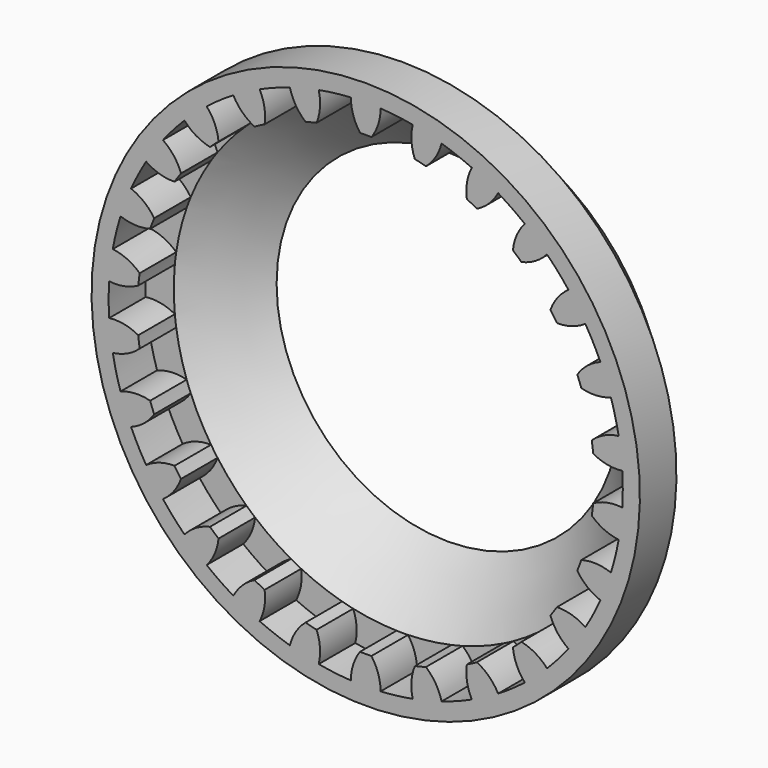
from build123d import *

# Parameters (mm, degrees)
F3_DEPTH = 4


with BuildPart() as f1:
    # F0 (on Right) → F1 (revolve)
    with BuildSketch(Plane.YZ):
        Polygon((0, 24), (0, 20), (4, 20), (9, 15), (9, 19), (4, 24), align=None)
    revolve(axis=Axis((0, -4.493960645, 0), (0, -1, 0)))

    # F2 (on Front) → F3 (cut)
    with BuildSketch(Plane.XZ):
        with BuildLine():
            ThreePointArc((-4.2993464204, 19.5324248458), (-2.4107336051, 19.854177482), (-0.5, 19.9937490231))
            ThreePointArc((-0.5, 19.9937490231), (-1.0942234741, 21.1650840575), (-1.2989277317, 22.4624750806))
            ThreePointArc((-1.2989277317, 22.4624750806), (-2.7120753057, 22.3359496672), (-4.1144388929, 22.1206101317))
            ThreePointArc((-4.1144388929, 22.1206101317), (-4.0027088223, 20.8119299984), (-4.2993464204, 19.5324248458))
        make_face()
        with BuildLine():
            ThreePointArc((0.5, 19.9937490231), (2.4107336051, 19.854177482), (4.2993464204, 19.5324248458))
            ThreePointArc((4.2993464204, 19.5324248458), (4.0027088223, 20.8119299984), (4.1144388929, 22.1206101317))
            ThreePointArc((4.1144388929, 22.1206101317), (2.7120753057, 22.3359496672), (1.2989277317, 22.4624750806))
            ThreePointArc((1.2989277317, 22.4624750806), (1.0942234741, 21.1650840575), (0.5, 19.9937490231))
        make_face()
        with BuildLine():
            ThreePointArc((9.7342864799, 17.4712239619), (11.3612949346, 16.4596773179), (12.8840526263, 15.2970973692))
            ThreePointArc((12.8840526263, 15.2970973692), (13.2160087708, 16.5678972819), (13.9231148178, 17.6747524387))
            ThreePointArc((13.9231148178, 17.6747524387), (12.7814568015, 18.5171369826), (11.5889760584, 19.2858920955))
            ThreePointArc((11.5889760584, 19.2858920955), (10.8047917684, 18.2322402084), (9.7342864799, 17.4712239619))
        make_face()
        with BuildLine():
            ThreePointArc((13.6325633745, 14.6339747109), (14.9702149634, 13.2624531648), (16.1705004914, 11.769235908))
            ThreePointArc((16.1705004914, 11.769235908), (16.7969329189, 12.9236663796), (17.7483795264, 13.8291367838))
            ThreePointArc((17.7483795264, 13.8291367838), (16.8414918338, 14.9202598104), (15.8676375544, 15.952055618))
            ThreePointArc((15.8676375544, 15.952055618), (14.8540848334, 15.1166885241), (13.6325633745, 14.6339747109))
        make_face()
        with BuildLine():
            ThreePointArc((16.7385652381, 10.9462520421), (17.7091205131, 9.2944634409), (18.5171776453, 7.5573892352))
            ThreePointArc((18.5171776453, 7.5573892352), (19.4016803801, 8.5283589629), (20.5421729297, 9.1798219659))
            ThreePointArc((20.5421729297, 9.1798219659), (19.9227605772, 10.456271371), (19.2241296323, 11.6911436515))
            ThreePointArc((19.2241296323, 11.6911436515), (18.0401124803, 11.1226098498), (16.7385652381, 10.9462520421))
        make_face()
        with BuildLine():
            ThreePointArc((18.8717825323, 6.6223729926), (19.4188363485, 4.7863132858), (19.7877037416, 2.9063345702))
            ThreePointArc((19.7877037416, 2.9063345702), (20.8788726999, 3.6374143226), (22.1421299101, 3.9970092626))
            ThreePointArc((22.1421299101, 3.9970092626), (21.8461908921, 5.3846024465), (21.4633851729, 6.7507849114))
            ThreePointArc((21.4633851729, 6.7507849114), (20.177714363, 6.48212552), (18.8717825323, 6.6223729926))
        make_face()
        with BuildLine():
            ThreePointArc((19.9082404219, 1.9136256961), (19.9770469344, 0.9579121991), (20, 0))
            ThreePointArc((20, 0), (19.9770469344, -0.9579121991), (19.9082404219, -1.9136256961))
            ThreePointArc((19.9082404219, -1.9136256961), (21.1426608299, -1.4649236166), (22.4552667834, -1.4180950904))
            ThreePointArc((22.4552667834, -1.4180950904), (22.4888139152, -0.7094002302), (22.5, 0))
            ThreePointArc((22.5, 0), (22.4888139152, 0.7094002302), (22.4552667834, 1.4180950904))
            ThreePointArc((22.4552667834, 1.4180950904), (21.1426608299, 1.4649236166), (19.9082404219, 1.9136256961))
        make_face()
        with BuildLine():
            ThreePointArc((22.1421299101, -3.9970092626), (20.8788726999, -3.6374143226), (19.7877037416, -2.9063345702))
            ThreePointArc((19.7877037416, -2.9063345702), (19.4188363485, -4.7863132858), (18.8717825323, -6.6223729926))
            ThreePointArc((18.8717825323, -6.6223729926), (20.177714363, -6.48212552), (21.4633851729, -6.7507849114))
            ThreePointArc((21.4633851729, -6.7507849114), (21.8461908921, -5.3846024465), (22.1421299101, -3.9970092626))
        make_face()
        with BuildLine():
            ThreePointArc((20.5421729297, -9.1798219659), (19.4016803801, -8.5283589629), (18.5171776453, -7.5573892352))
            ThreePointArc((18.5171776453, -7.5573892352), (17.7091205131, -9.2944634409), (16.7385652381, -10.9462520421))
            ThreePointArc((16.7385652381, -10.9462520421), (18.0401124803, -11.1226098498), (19.2241296323, -11.6911436515))
            ThreePointArc((19.2241296323, -11.6911436515), (19.9227605772, -10.456271371), (20.5421729297, -9.1798219659))
        make_face()
        with BuildLine():
            ThreePointArc((17.7483795264, -13.8291367838), (16.7969329189, -12.9236663796), (16.1705004914, -11.769235908))
            ThreePointArc((16.1705004914, -11.769235908), (14.9702149634, -13.2624531648), (13.6325633745, -14.6339747109))
            ThreePointArc((13.6325633745, -14.6339747109), (14.8540848334, -15.1166885241), (15.8676375544, -15.952055618))
            ThreePointArc((15.8676375544, -15.952055618), (16.8414918338, -14.9202598104), (17.7483795264, -13.8291367838))
        make_face()
        with BuildLine():
            ThreePointArc((13.9231148178, -17.6747524387), (13.2160087708, -16.5678972819), (12.8840526263, -15.2970973692))
            ThreePointArc((12.8840526263, -15.2970973692), (11.3612949346, -16.4596773179), (9.7342864799, -17.4712239619))
            ThreePointArc((9.7342864799, -17.4712239619), (10.8047917684, -18.2322402084), (11.5889760584, -19.2858920955))
            ThreePointArc((11.5889760584, -19.2858920955), (12.7814568015, -18.5171369826), (13.9231148178, -17.6747524387))
        make_face()
        with BuildLine():
            ThreePointArc((9.2886892845, -20.493175727), (8.8670182312, -19.249262216), (8.8488304543, -17.935947134))
            ThreePointArc((8.8488304543, -17.935947134), (7.0920977409, -18.7003248537), (5.2702882378, -19.2931091815))
            ThreePointArc((5.2702882378, -19.2931091815), (6.1275634796, -20.2882003632), (6.636805398, -21.4989026257))
            ThreePointArc((6.636805398, -21.4989026257), (7.9786099585, -21.0378654604), (9.2886892845, -20.493175727))
        make_face()
        with BuildLine():
            ThreePointArc((4.1144388929, -22.1206101317), (4.0027088223, -20.8119299984), (4.2993464204, -19.5324248458))
            ThreePointArc((4.2993464204, -19.5324248458), (2.4107336051, -19.854177482), (0.5, -19.9937490231))
            ThreePointArc((0.5, -19.9937490231), (1.0942234741, -21.1650840575), (1.2989277317, -22.4624750806))
            ThreePointArc((1.2989277317, -22.4624750806), (2.7120753057, -22.3359496672), (4.1144388929, -22.1206101317))
        make_face()
        with BuildLine():
            ThreePointArc((-1.2989277317, -22.4624750806), (-1.0942234741, -21.1650840575), (-0.5, -19.9937490231))
            ThreePointArc((-0.5, -19.9937490231), (-2.4107336051, -19.854177482), (-4.2993464204, -19.5324248458))
            ThreePointArc((-4.2993464204, -19.5324248458), (-4.0027088223, -20.8119299984), (-4.1144388929, -22.1206101317))
            ThreePointArc((-4.1144388929, -22.1206101317), (-2.7120753057, -22.3359496672), (-1.2989277317, -22.4624750806))
        make_face()
        with BuildLine():
            ThreePointArc((-6.636805398, -21.4989026257), (-6.1275634796, -20.2882003632), (-5.2702882378, -19.2931091815))
            ThreePointArc((-5.2702882378, -19.2931091815), (-7.0920977409, -18.7003248537), (-8.8488304543, -17.935947134))
            ThreePointArc((-8.8488304543, -17.935947134), (-8.8670182312, -19.249262216), (-9.2886892845, -20.493175727))
            ThreePointArc((-9.2886892845, -20.493175727), (-7.9786099585, -21.0378654604), (-6.636805398, -21.4989026257))
        make_face()
        with BuildLine():
            ThreePointArc((-11.5889760584, -19.2858920955), (-10.8047917684, -18.2322402084), (-9.7342864799, -17.4712239619))
            ThreePointArc((-9.7342864799, -17.4712239619), (-11.3612949346, -16.4596773179), (-12.8840526263, -15.2970973692))
            ThreePointArc((-12.8840526263, -15.2970973692), (-13.2160087708, -16.5678972819), (-13.9231148178, -17.6747524387))
            ThreePointArc((-13.9231148178, -17.6747524387), (-12.7814568015, -18.5171369826), (-11.5889760584, -19.2858920955))
        make_face()
        with BuildLine():
            ThreePointArc((-15.8676375544, -15.952055618), (-14.8540848334, -15.1166885241), (-13.6325633745, -14.6339747109))
            ThreePointArc((-13.6325633745, -14.6339747109), (-14.9702149634, -13.2624531648), (-16.1705004914, -11.769235908))
            ThreePointArc((-16.1705004914, -11.769235908), (-16.7969329189, -12.9236663796), (-17.7483795264, -13.8291367838))
            ThreePointArc((-17.7483795264, -13.8291367838), (-16.8414918338, -14.9202598104), (-15.8676375544, -15.952055618))
        make_face()
        with BuildLine():
            ThreePointArc((-19.2241296323, -11.6911436515), (-18.0401124803, -11.1226098498), (-16.7385652381, -10.9462520421))
            ThreePointArc((-16.7385652381, -10.9462520421), (-17.7091205131, -9.2944634409), (-18.5171776453, -7.5573892352))
            ThreePointArc((-18.5171776453, -7.5573892352), (-19.4016803801, -8.5283589629), (-20.5421729297, -9.1798219659))
            ThreePointArc((-20.5421729297, -9.1798219659), (-19.9227605772, -10.456271371), (-19.2241296323, -11.6911436515))
        make_face()
        with BuildLine():
            ThreePointArc((-21.4633851729, -6.7507849114), (-20.177714363, -6.48212552), (-18.8717825323, -6.6223729926))
            ThreePointArc((-18.8717825323, -6.6223729926), (-19.4188363485, -4.7863132858), (-19.7877037416, -2.9063345702))
            ThreePointArc((-19.7877037416, -2.9063345702), (-20.8788726999, -3.6374143226), (-22.1421299101, -3.9970092626))
            ThreePointArc((-22.1421299101, -3.9970092626), (-21.8461908921, -5.3846024465), (-21.4633851729, -6.7507849114))
        make_face()
        with BuildLine():
            ThreePointArc((-19.9082404219, -1.9136256961), (-20, 0), (-19.9082404219, 1.9136256961))
            ThreePointArc((-19.9082404219, 1.9136256961), (-21.1426608299, 1.4649236166), (-22.4552667834, 1.4180950904))
            ThreePointArc((-22.4552667834, 1.4180950904), (-22.5, 0), (-22.4552667834, -1.4180950904))
            ThreePointArc((-22.4552667834, -1.4180950904), (-21.1426608299, -1.4649236166), (-19.9082404219, -1.9136256961))
        make_face()
        with BuildLine():
            ThreePointArc((-19.7877037416, 2.9063345702), (-19.4188363485, 4.7863132858), (-18.8717825323, 6.6223729926))
            ThreePointArc((-18.8717825323, 6.6223729926), (-20.177714363, 6.48212552), (-21.4633851729, 6.7507849114))
            ThreePointArc((-21.4633851729, 6.7507849114), (-21.8461908921, 5.3846024465), (-22.1421299101, 3.9970092626))
            ThreePointArc((-22.1421299101, 3.9970092626), (-20.8788726999, 3.6374143226), (-19.7877037416, 2.9063345702))
        make_face()
        with BuildLine():
            ThreePointArc((-18.5171776453, 7.5573892352), (-17.7091205131, 9.2944634409), (-16.7385652381, 10.9462520421))
            ThreePointArc((-16.7385652381, 10.9462520421), (-18.0401124803, 11.1226098498), (-19.2241296323, 11.6911436515))
            ThreePointArc((-19.2241296323, 11.6911436515), (-19.9227605772, 10.456271371), (-20.5421729297, 9.1798219659))
            ThreePointArc((-20.5421729297, 9.1798219659), (-19.4016803801, 8.5283589629), (-18.5171776453, 7.5573892352))
        make_face()
        with BuildLine():
            ThreePointArc((-16.1705004914, 11.769235908), (-14.9702149634, 13.2624531648), (-13.6325633745, 14.6339747109))
            ThreePointArc((-13.6325633745, 14.6339747109), (-14.8540848334, 15.1166885241), (-15.8676375544, 15.952055618))
            ThreePointArc((-15.8676375544, 15.952055618), (-16.8414918338, 14.9202598104), (-17.7483795264, 13.8291367838))
            ThreePointArc((-17.7483795264, 13.8291367838), (-16.7969329189, 12.9236663796), (-16.1705004914, 11.769235908))
        make_face()
        with BuildLine():
            ThreePointArc((-12.8840526263, 15.2970973692), (-11.3612949346, 16.4596773179), (-9.7342864799, 17.4712239619))
            ThreePointArc((-9.7342864799, 17.4712239619), (-10.8047917684, 18.2322402084), (-11.5889760584, 19.2858920955))
            ThreePointArc((-11.5889760584, 19.2858920955), (-12.7814568015, 18.5171369826), (-13.9231148178, 17.6747524387))
            ThreePointArc((-13.9231148178, 17.6747524387), (-13.2160087708, 16.5678972819), (-12.8840526263, 15.2970973692))
        make_face()
        with BuildLine():
            ThreePointArc((-8.8488304543, 17.935947134), (-7.0920977409, 18.7003248537), (-5.2702882378, 19.2931091815))
            ThreePointArc((-5.2702882378, 19.2931091815), (-6.1275634796, 20.2882003632), (-6.636805398, 21.4989026257))
            ThreePointArc((-6.636805398, 21.4989026257), (-7.9786099585, 21.0378654604), (-9.2886892845, 20.493175727))
            ThreePointArc((-9.2886892845, 20.493175727), (-8.8670182312, 19.249262216), (-8.8488304543, 17.935947134))
        make_face()
        with BuildLine():
            ThreePointArc((5.2702882378, 19.2931091815), (7.0920977409, 18.7003248537), (8.8488304543, 17.935947134))
            ThreePointArc((8.8488304543, 17.935947134), (8.8670182312, 19.249262216), (9.2886892845, 20.493175727))
            ThreePointArc((9.2886892845, 20.493175727), (7.9786099585, 21.0378654604), (6.636805398, 21.4989026257))
            ThreePointArc((6.636805398, 21.4989026257), (6.1275634796, 20.2882003632), (5.2702882378, 19.2931091815))
        make_face()
    extrude(amount=-F3_DEPTH, mode=Mode.SUBTRACT)


solid = f1.part
